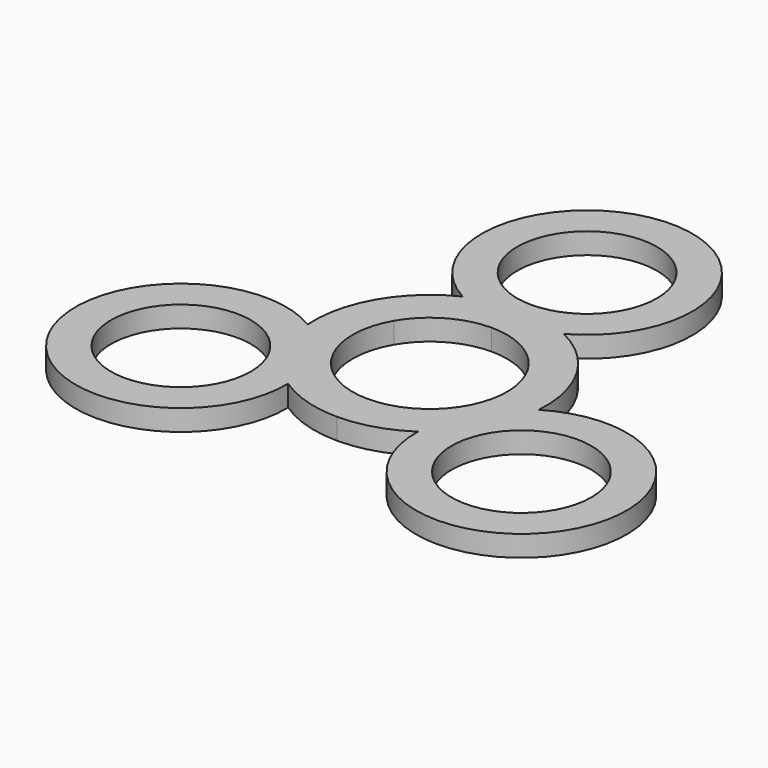
from build123d import *

# Parameters (mm, degrees)
F0_R     = 9.95
F1_DEPTH = 3


with BuildPart() as f1:
    # F0 (on Top) → F1 (new body)
    with BuildSketch(Plane.XY):
        with BuildLine():
            ThreePointArc((14.289419, 8.25), (11.241561, 12.077968), (7.205074, 14.84375))
            ThreePointArc((7.205074, 14.84375), (0, 43), (-7.205074, 14.84375))
            ThreePointArc((-7.205074, 14.84375), (-11.241561, 12.077968), (-14.289419, 8.25))
            ThreePointArc((-14.289419, 8.25), (-16.080607, 3.696493), (-16.457601, -1.182098))
            ThreePointArc((-16.457601, -1.182098), (-37.239092, -21.5), (-9.252528, -13.661652))
            ThreePointArc((-9.252528, -13.661652), (-4.839047, -15.774461), (0, -16.5))
            ThreePointArc((0, -16.5), (4.839047, -15.774461), (9.252528, -13.661652))
            ThreePointArc((9.252528, -13.661652), (37.239092, -21.5), (16.457601, -1.182098))
            ThreePointArc((16.457601, -1.182098), (16.080607, 3.696493), (14.289419, 8.25))
        make_face()
        with Locations((-24.248711, -14)):
            Circle(F0_R, mode=Mode.SUBTRACT)
        with Locations((24.248711, -14)):
            Circle(F0_R, mode=Mode.SUBTRACT)
        with BuildLine():
            ThreePointArc((0, 11), (5.5, 9.526279), (9.526279, 5.5))
            ThreePointArc((9.526279, 5.5), (9.526279, -5.5), (0, -11))
            ThreePointArc((0, -11), (-9.526279, -5.5), (-9.526279, 5.5))
            ThreePointArc((-9.526279, 5.5), (-5.5, 9.526279), (0, 11))
        make_face(mode=Mode.SUBTRACT)
        with BuildLine():
            ThreePointArc((9.95, 28), (7.035712, 20.964288), (0, 18.05))
            ThreePointArc((0, 18.05), (-7.035712, 35.035712), (9.95, 28))
        make_face(mode=Mode.SUBTRACT)
    extrude(amount=F1_DEPTH)


solid = f1.part
